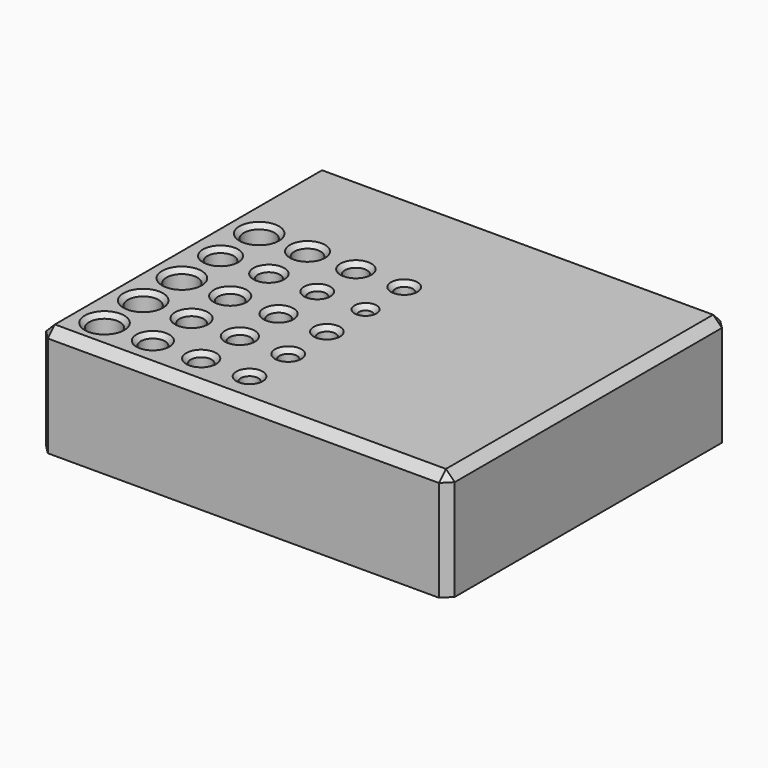
from build123d import *

# Parameters (mm, degrees)
SKETCH_W        = 93
SKETCH_H        = 80
PAD_DEPTH       = 25
SKETCH001_R     = 3.5
SKETCH001_R_2   = 3
SKETCH001_R_3   = 2.75
SKETCH001_R_4   = 2.5
SKETCH001_R_5   = 2.4
SKETCH001_R_6   = 2
SKETCH001_R_7   = 1.5
POCKET_DEPTH    = 15
CHAMFER_SIZE    = 2
CHAMFER001_SIZE = 1


with BuildPart() as part:
    # Sketch → Pad (new body)
    with BuildSketch(Plane.XY):
        with Locations((21.5, 10)):
            Rectangle(SKETCH_W, SKETCH_H)
    extrude(amount=PAD_DEPTH)

    # Sketch001 (on Face6 of Pad) → Pocket (cut)
    with BuildSketch(Plane.XY.offset(25)):
        with Locations((-16.5, -22)):
            Circle(SKETCH001_R)
        with Locations((-16.5, -11)):
            Circle(SKETCH001_R)
        with Locations((-16.5, 0)):
            Circle(SKETCH001_R)
        with Locations((-16.5, 11)):
            Circle(SKETCH001_R_2)
        with Locations((-5.5, -22)):
            Circle(SKETCH001_R_3)
        with Locations((-5.5, -11)):
            Circle(SKETCH001_R_3)
        with Locations((-5.5, 0)):
            Circle(SKETCH001_R_3)
        with Locations((-5.5, 11)):
            Circle(SKETCH001_R_4)
        with Locations((5.5, -22)):
            Circle(SKETCH001_R_5)
        with Locations((5.5, -11)):
            Circle(SKETCH001_R_5)
        with Locations((5.5, 0)):
            Circle(SKETCH001_R_5)
        with Locations((5.5, 11)):
            Circle(SKETCH001_R_6)
        with Locations((16.5, -22)):
            Circle(SKETCH001_R_6)
        with Locations((16.5, -11)):
            Circle(SKETCH001_R_6)
        with Locations((16.5, 0)):
            Circle(SKETCH001_R_6)
        with Locations((16.5, 11)):
            Circle(SKETCH001_R_7)
        with Locations((-16.5, 22)):
            Circle(SKETCH001_R)
        with Locations((-5.5, 22)):
            Circle(SKETCH001_R_2)
        with Locations((5.5, 22)):
            Circle(SKETCH001_R_4)
        with Locations((16.5, 22)):
            Circle(SKETCH001_R_6)
    extrude(amount=-POCKET_DEPTH, mode=Mode.SUBTRACT)

    # Chamfer
    chamfer_edges = [part.edges().sort_by_distance(p)[0] for p in [
        (68, -30, 12.5),
        (-25, -30, 12.5),
        (-25, 10, 25),
        (21.5, -30, 25),
        (68, 10, 25),
        (68, 50, 12.5),
        (21.5, 50, 25),
        (-25, 50, 12.5),
    ]]
    chamfer(chamfer_edges, length=CHAMFER_SIZE)

    # Chamfer001
    chamfer001_edges = [part.edges().sort_by_distance(p)[0] for p in [
        (-20, -22, 25),
        (-8.25, -22, 25),
        (3.1, -22, 25),
        (14.5, -22, 25),
        (14.5, -11, 25),
        (14.5, 0, 25),
        (15, 11, 25),
        (14.5, 22, 25),
        (3, 22, 25),
        (3.5, 11, 25),
        (3.1, 0, 25),
        (3.1, -11, 25),
        (-8.25, -11, 25),
        (-8.25, 0, 25),
        (-8, 11, 25),
        (-8.5, 22, 25),
        (-20, 22, 25),
        (-19.5, 11, 25),
        (-20, 0, 25),
        (-20, -11, 25),
    ]]
    chamfer(chamfer001_edges, length=CHAMFER001_SIZE)


solid = part.part
